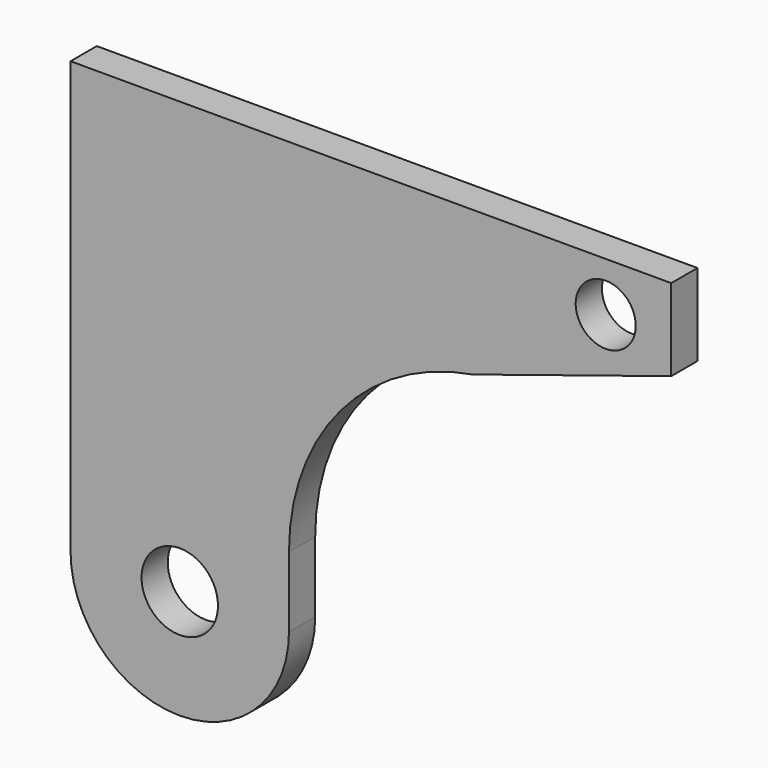
from build123d import *

# Parameters (mm, degrees)
F0_R     = 3.5
F0_R_2   = 2.75
F1_DEPTH = 3


with BuildPart() as f1:
    # F0 (on Front) → F1 (new body)
    with BuildSketch(Plane.XZ):
        with BuildLine():
            Line((40.839111, 26.155032), (-14.160889, 26.155032))
            Line((-14.160889, 26.155032), (-14.160889, -13.344968))
            ThreePointArc((-14.160889, -13.344968), (-4.160889, -23.344968), (5.839111, -13.344968))
            Line((5.839111, -13.344968), (5.839111, -6.874968))
            ThreePointArc((5.839111, -6.874968), (10.601113, 6.078928), (22.619453, 12.864176))
            Line((22.619453, 12.864176), (40.839111, 18.655032))
            Line((40.839111, 18.655032), (40.839111, 26.155032))
        make_face()
        with Locations((-4.160889, -13.344968)):
            Circle(F0_R, mode=Mode.SUBTRACT)
        with Locations((34.839111, 21.655032)):
            Circle(F0_R_2, mode=Mode.SUBTRACT)
    extrude(amount=F1_DEPTH)


solid = f1.part
